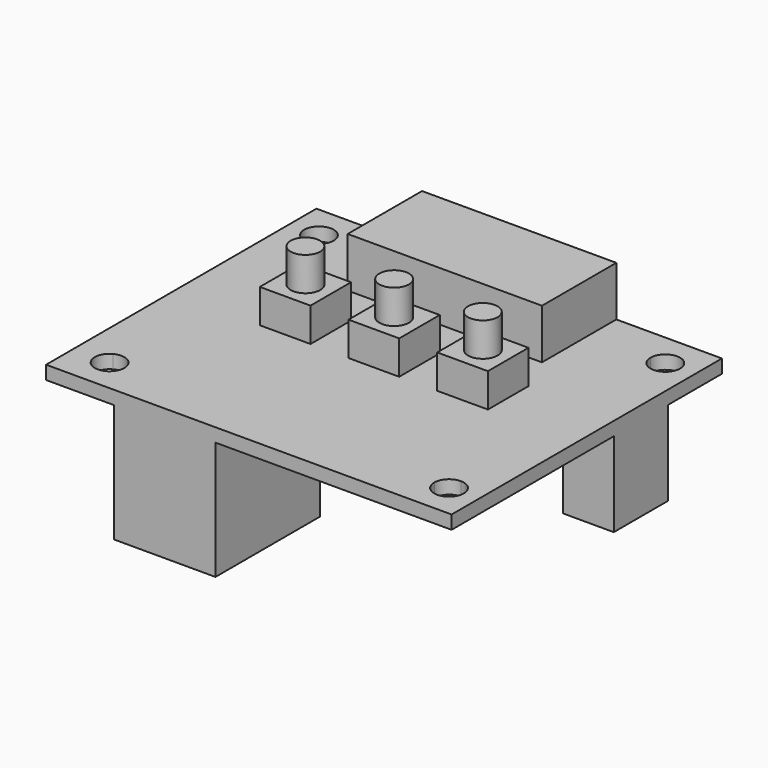
from build123d import *

# Parameters (mm, degrees)
F0_W     = 12
F0_H     = 11.5
F0_H_2   = 4
F0_W_2   = 3.5
F0_H_3   = 8
F0_H_4   = 2.5
F0_W_3   = 2.5
F1_DEPTH = 1.6
F0_W_4   = 23
F0_H_5   = 7
F2_DEPTH = 7.5
F3_DEPTH = 5.6
F4_DEPTH = 9.6
F5_DEPTH = 14
F6_DEPTH = 10


with BuildPart() as f1:
    # F0 (on Top) → F1 (new body)
    with BuildSketch(Plane.XY):
        with BuildLine():
            Line((-11.5, 16), (-18.75, 16))
            ThreePointArc((-18.75, 16), (-19.2625631329, 14.7625631329), (-20.5, 14.25))
            Line((-20.5, 14.25), (-20.5, 1.5))
            Line((-20.5, 1.5), (-13.5, 1.5))
            Line((-13.5, 1.5), (-13.5, 4.5))
            Line((-13.5, 4.5), (-7.5, 4.5))
            Line((-7.5, 4.5), (-7.5, 1.5))
            Line((-7.5, 1.5), (-3, 1.5))
            Line((-3, 1.5), (-3, 4.5))
            Line((-3, 4.5), (3, 4.5))
            Line((3, 4.5), (3, 1.5))
            Line((3, 1.5), (7.5, 1.5))
            Line((7.5, 1.5), (7.5, 4.5))
            Line((7.5, 4.5), (13.5, 4.5))
            Line((13.5, 4.5), (13.5, 1.5))
            Line((13.5, 1.5), (20.5, 1.5))
            Line((20.5, 1.5), (20.5, 4))
            Line((20.5, 4), (18, 4))
            Line((18, 4), (18, 12))
            Line((18, 12), (20.5, 12))
            Line((20.5, 12), (20.5, 14.25))
            ThreePointArc((20.5, 14.25), (19.2625631329, 14.7625631329), (18.75, 16))
            Line((18.75, 16), (11.5, 16))
            Line((11.5, 16), (11.5, 9))
            Line((11.5, 9), (-11.5, 9))
            Line((-11.5, 9), (-11.5, 16))
        make_face()
        with BuildLine():
            ThreePointArc((-20.5, 14.25), (-21.7374368671, 17.2374368671), (-18.75, 16))
            Line((-18.75, 16), (-11.5, 16))
            Line((-11.5, 16), (-11.5, 20))
            Line((-11.5, 20), (-24, 20))
            Line((-24, 20), (-24, 1.5))
            Line((-24, 1.5), (-20.5, 1.5))
            Line((-20.5, 1.5), (-20.5, 14.25))
        make_face()
        with BuildLine():
            Line((11.5, 20), (11.5, 16))
            Line((11.5, 16), (18.75, 16))
            ThreePointArc((18.75, 16), (20.5, 17.75), (22.25, 16))
            ThreePointArc((22.25, 16), (21.7374368671, 14.7625631329), (20.5, 14.25))
            Line((20.5, 14.25), (20.5, 12))
            Line((20.5, 12), (24, 12))
            Line((24, 12), (24, 20))
            Line((24, 20), (11.5, 20))
        make_face()
        with BuildLine():
            Line((-13.5, 1.5), (-20.5, 1.5))
            Line((-20.5, 1.5), (-20.5, -14.4517312036))
            ThreePointArc((-20.5, -14.4517312036), (-18.7801368934, -14.5016722582), (-17.9343016893, -16))
            Line((-17.9343016893, -16), (-15.9493740648, -16))
            Line((-15.9493740648, -16), (-15.9493740648, -4.5))
            Line((-15.9493740648, -4.5), (-3.9493740648, -4.5))
            Line((-3.9493740648, -4.5), (-3.9493740648, -16))
            Line((-3.9493740648, -16), (18.75, -16))
            ThreePointArc((18.75, -16), (19.2625631329, -14.7625631329), (20.5, -14.25))
            Line((20.5, -14.25), (20.5, 1.5))
            Line((20.5, 1.5), (13.5, 1.5))
            Line((13.5, 1.5), (13.5, -1.5))
            Line((13.5, -1.5), (7.5, -1.5))
            Line((7.5, -1.5), (7.5, 1.5))
            Line((7.5, 1.5), (3, 1.5))
            Line((3, 1.5), (3, -1.5))
            Line((3, -1.5), (-3, -1.5))
            Line((-3, -1.5), (-3, 1.5))
            Line((-3, 1.5), (-7.5, 1.5))
            Line((-7.5, 1.5), (-7.5, -1.5))
            Line((-7.5, -1.5), (-13.5, -1.5))
            Line((-13.5, -1.5), (-13.5, 1.5))
        make_face()
        with BuildLine():
            Line((-20.5, -14.4517312036), (-20.5, 1.5))
            Line((-20.5, 1.5), (-24, 1.5))
            Line((-24, 1.5), (-24, -20))
            Line((-24, -20), (-15.9493740648, -20))
            Line((-15.9493740648, -20), (-15.9493740648, -16))
            Line((-15.9493740648, -16), (-17.9343016893, -16))
            ThreePointArc((-17.9343016893, -16), (-20.5884664851, -17.4983277418), (-20.5, -14.4517312036))
        make_face()
        with BuildLine():
            Line((18.75, -16), (-3.9493740648, -16))
            Line((-3.9493740648, -16), (-3.9493740648, -20))
            Line((-3.9493740648, -20), (24, -20))
            Line((24, -20), (24, 1.5))
            Line((24, 1.5), (20.5, 1.5))
            Line((20.5, 1.5), (20.5, -14.25))
            ThreePointArc((20.5, -14.25), (21.7374368671, -14.7625631329), (22.25, -16))
            ThreePointArc((22.25, -16), (20.5, -17.75), (18.75, -16))
        make_face()
        with Locations((-9.9493740648, -10.25)):
            Rectangle(F0_W, F0_H)
        with Locations((-9.9493740648, -18)):
            Rectangle(F0_W, F0_H_2)
        with Locations((22.25, 8)):
            Rectangle(F0_W_2, F0_H_3)
        with Locations((22.25, 2.75)):
            Rectangle(F0_W_2, F0_H_4)
        with Locations((19.25, 8)):
            Rectangle(F0_W_3, F0_H_3)
        with BuildLine():
            Line((-13.5, 4.5), (-13.5, 1.5))
            Line((-13.5, 1.5), (-12.25, 1.5))
            ThreePointArc((-12.25, 1.5), (-10.5, 3.25), (-8.75, 1.5))
            Line((-8.75, 1.5), (-7.5, 1.5))
            Line((-7.5, 1.5), (-7.5, 4.5))
            Line((-7.5, 4.5), (-13.5, 4.5))
        make_face()
        with BuildLine():
            Line((-3, 4.5), (-3, 1.5))
            Line((-3, 1.5), (-1.75, 1.5))
            ThreePointArc((-1.75, 1.5), (0, 3.25), (1.75, 1.5))
            Line((1.75, 1.5), (3, 1.5))
            Line((3, 1.5), (3, 4.5))
            Line((3, 4.5), (-3, 4.5))
        make_face()
        with BuildLine():
            Line((12.25, 1.5), (13.5, 1.5))
            Line((13.5, 1.5), (13.5, 4.5))
            Line((13.5, 4.5), (7.5, 4.5))
            Line((7.5, 4.5), (7.5, 1.5))
            Line((7.5, 1.5), (8.75, 1.5))
            ThreePointArc((8.75, 1.5), (10.5, 3.25), (12.25, 1.5))
        make_face()
        with BuildLine():
            ThreePointArc((-8.75, 1.5), (-10.5, 3.25), (-12.25, 1.5))
            Line((-12.25, 1.5), (-8.75, 1.5))
        make_face()
        with BuildLine():
            Line((-8.75, 1.5), (-12.25, 1.5))
            ThreePointArc((-12.25, 1.5), (-10.5, -0.25), (-8.75, 1.5))
        make_face()
        with BuildLine():
            Line((-12.25, 1.5), (-13.5, 1.5))
            Line((-13.5, 1.5), (-13.5, -1.5))
            Line((-13.5, -1.5), (-7.5, -1.5))
            Line((-7.5, -1.5), (-7.5, 1.5))
            Line((-7.5, 1.5), (-8.75, 1.5))
            ThreePointArc((-8.75, 1.5), (-10.5, -0.25), (-12.25, 1.5))
        make_face()
        with BuildLine():
            Line((-1.75, 1.5), (-3, 1.5))
            Line((-3, 1.5), (-3, -1.5))
            Line((-3, -1.5), (3, -1.5))
            Line((3, -1.5), (3, 1.5))
            Line((3, 1.5), (1.75, 1.5))
            ThreePointArc((1.75, 1.5), (0, -0.25), (-1.75, 1.5))
        make_face()
        with BuildLine():
            Line((1.75, 1.5), (-1.75, 1.5))
            ThreePointArc((-1.75, 1.5), (0, -0.25), (1.75, 1.5))
        make_face()
        with BuildLine():
            ThreePointArc((1.75, 1.5), (0, 3.25), (-1.75, 1.5))
            Line((-1.75, 1.5), (1.75, 1.5))
        make_face()
        with BuildLine():
            Line((8.75, 1.5), (12.25, 1.5))
            ThreePointArc((12.25, 1.5), (10.5, 3.25), (8.75, 1.5))
        make_face()
        with BuildLine():
            ThreePointArc((8.75, 1.5), (10.5, -0.25), (12.25, 1.5))
            Line((12.25, 1.5), (8.75, 1.5))
        make_face()
        with BuildLine():
            Line((13.5, -1.5), (13.5, 1.5))
            Line((13.5, 1.5), (12.25, 1.5))
            ThreePointArc((12.25, 1.5), (10.5, -0.25), (8.75, 1.5))
            Line((8.75, 1.5), (7.5, 1.5))
            Line((7.5, 1.5), (7.5, -1.5))
            Line((7.5, -1.5), (13.5, -1.5))
        make_face()
    extrude(amount=F1_DEPTH)

    # F0 (on Top) → F2 (join)
    with BuildSketch(Plane.XY):
        with Locations((0, 12.5)):
            Rectangle(F0_W_4, F0_H_5)
        with Locations((0, 18)):
            Rectangle(F0_W_4, F0_H_2)
    extrude(amount=F2_DEPTH)

    # F0 (on Top) → F3 (join)
    with BuildSketch(Plane.XY):
        with BuildLine():
            Line((-13.5, 4.5), (-13.5, 1.5))
            Line((-13.5, 1.5), (-12.25, 1.5))
            ThreePointArc((-12.25, 1.5), (-10.5, 3.25), (-8.75, 1.5))
            Line((-8.75, 1.5), (-7.5, 1.5))
            Line((-7.5, 1.5), (-7.5, 4.5))
            Line((-7.5, 4.5), (-13.5, 4.5))
        make_face()
        with BuildLine():
            Line((-12.25, 1.5), (-13.5, 1.5))
            Line((-13.5, 1.5), (-13.5, -1.5))
            Line((-13.5, -1.5), (-7.5, -1.5))
            Line((-7.5, -1.5), (-7.5, 1.5))
            Line((-7.5, 1.5), (-8.75, 1.5))
            ThreePointArc((-8.75, 1.5), (-10.5, -0.25), (-12.25, 1.5))
        make_face()
        with BuildLine():
            Line((-3, 4.5), (-3, 1.5))
            Line((-3, 1.5), (-1.75, 1.5))
            ThreePointArc((-1.75, 1.5), (0, 3.25), (1.75, 1.5))
            Line((1.75, 1.5), (3, 1.5))
            Line((3, 1.5), (3, 4.5))
            Line((3, 4.5), (-3, 4.5))
        make_face()
        with BuildLine():
            Line((-1.75, 1.5), (-3, 1.5))
            Line((-3, 1.5), (-3, -1.5))
            Line((-3, -1.5), (3, -1.5))
            Line((3, -1.5), (3, 1.5))
            Line((3, 1.5), (1.75, 1.5))
            ThreePointArc((1.75, 1.5), (0, -0.25), (-1.75, 1.5))
        make_face()
        with BuildLine():
            Line((12.25, 1.5), (13.5, 1.5))
            Line((13.5, 1.5), (13.5, 4.5))
            Line((13.5, 4.5), (7.5, 4.5))
            Line((7.5, 4.5), (7.5, 1.5))
            Line((7.5, 1.5), (8.75, 1.5))
            ThreePointArc((8.75, 1.5), (10.5, 3.25), (12.25, 1.5))
        make_face()
        with BuildLine():
            Line((13.5, -1.5), (13.5, 1.5))
            Line((13.5, 1.5), (12.25, 1.5))
            ThreePointArc((12.25, 1.5), (10.5, -0.25), (8.75, 1.5))
            Line((8.75, 1.5), (7.5, 1.5))
            Line((7.5, 1.5), (7.5, -1.5))
            Line((7.5, -1.5), (13.5, -1.5))
        make_face()
    extrude(amount=F3_DEPTH)

    # F0 (on Top) → F4 (join)
    with BuildSketch(Plane.XY):
        with BuildLine():
            ThreePointArc((1.75, 1.5), (0, 3.25), (-1.75, 1.5))
            Line((-1.75, 1.5), (1.75, 1.5))
        make_face()
        with BuildLine():
            Line((1.75, 1.5), (-1.75, 1.5))
            ThreePointArc((-1.75, 1.5), (0, -0.25), (1.75, 1.5))
        make_face()
        with BuildLine():
            ThreePointArc((-8.75, 1.5), (-10.5, 3.25), (-12.25, 1.5))
            Line((-12.25, 1.5), (-8.75, 1.5))
        make_face()
        with BuildLine():
            Line((-8.75, 1.5), (-12.25, 1.5))
            ThreePointArc((-12.25, 1.5), (-10.5, -0.25), (-8.75, 1.5))
        make_face()
        with BuildLine():
            Line((8.75, 1.5), (12.25, 1.5))
            ThreePointArc((12.25, 1.5), (10.5, 3.25), (8.75, 1.5))
        make_face()
        with BuildLine():
            ThreePointArc((8.75, 1.5), (10.5, -0.25), (12.25, 1.5))
            Line((12.25, 1.5), (8.75, 1.5))
        make_face()
    extrude(amount=F4_DEPTH)

    # F0 (on Top) → F5 (join)
    with BuildSketch(Plane.XY):
        with Locations((-9.9493740648, -10.25)):
            Rectangle(F0_W, F0_H)
        with Locations((-9.9493740648, -18)):
            Rectangle(F0_W, F0_H_2)
    extrude(amount=-F5_DEPTH)

    # F0 (on Top) → F6 (join)
    with BuildSketch(Plane.XY):
        with Locations((22.25, 8)):
            Rectangle(F0_W_2, F0_H_3)
        with Locations((19.25, 8)):
            Rectangle(F0_W_3, F0_H_3)
    extrude(amount=-F6_DEPTH)


solid = f1.part
